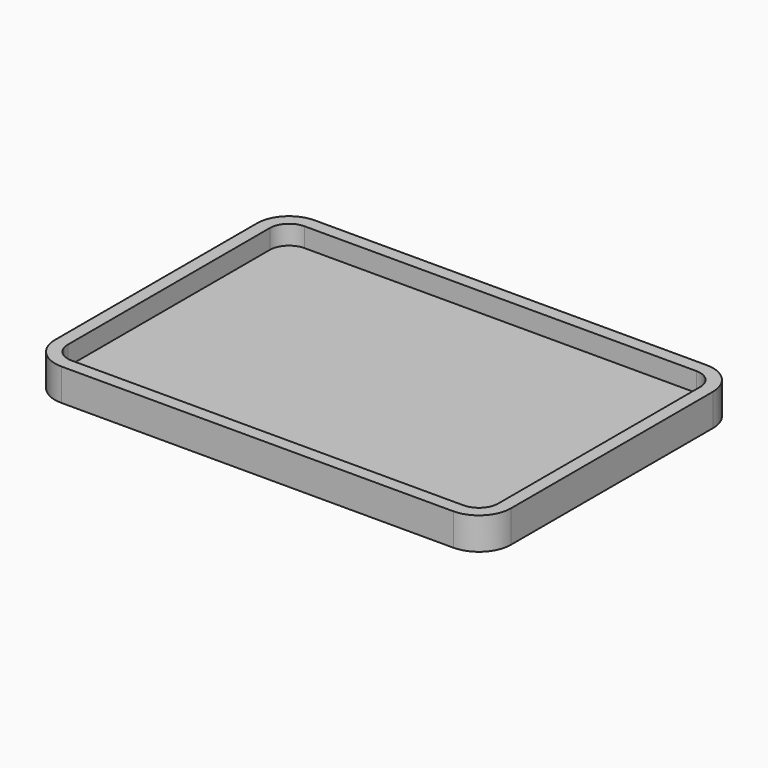
from build123d import *

# Parameters (mm, degrees)
F3_DEPTH = 6.35
F1_DEPTH = 2.54


with BuildPart() as f3:
    # F2 (on face) → F3 (new body)
    with BuildSketch(Plane.XY):
        with BuildLine():
            ThreePointArc((44.544026, 36.572959), (42.684154, 41.063087), (38.194026, 42.922959))
            Line((38.194026, 42.922959), (-39.380025, 42.922959))
            ThreePointArc((-39.380025, 42.922959), (-43.870153, 41.063087), (-45.730025, 36.572959))
            Line((-45.730025, 36.572959), (-45.730025, -13.405945))
            ThreePointArc((-45.730025, -13.405945), (-43.870153, -17.896073), (-39.380025, -19.755945))
            Line((-39.380025, -19.755945), (38.194026, -19.755945))
            ThreePointArc((38.194026, -19.755945), (42.684154, -17.896073), (44.544026, -13.405945))
            Line((44.544026, -13.405945), (44.544026, 36.572959))
        make_face()
        with BuildLine():
            ThreePointArc((-43.190025, 36.572959), (-42.074101, 39.267036), (-39.380025, 40.382959))
            Line((-39.380025, 40.382959), (38.194026, 40.382959))
            ThreePointArc((38.194026, 40.382959), (40.888103, 39.267036), (42.004026, 36.572959))
            Line((42.004026, 36.572959), (42.004026, -13.405945))
            ThreePointArc((42.004026, -13.405945), (40.888103, -16.100021), (38.194026, -17.215945))
            Line((38.194026, -17.215945), (-39.380025, -17.215945))
            ThreePointArc((-39.380025, -17.215945), (-42.074101, -16.100021), (-43.190025, -13.405945))
            Line((-43.190025, -13.405945), (-43.190025, 36.572959))
        make_face(mode=Mode.SUBTRACT)
    extrude(amount=F3_DEPTH)

    # F0 (on Top) → F1 (join)
    with BuildSketch(Plane.XY):
        with BuildLine():
            Line((38.194026, 42.922959), (-39.380025, 42.922959))
            ThreePointArc((-39.380025, 42.922959), (-43.870153, 41.063087), (-45.730025, 36.572959))
            Line((-45.730025, 36.572959), (-45.730025, -13.405945))
            ThreePointArc((-45.730025, -13.405945), (-43.870153, -17.896073), (-39.380025, -19.755945))
            Line((-39.380025, -19.755945), (38.194026, -19.755945))
            ThreePointArc((38.194026, -19.755945), (42.684154, -17.896073), (44.544026, -13.405945))
            Line((44.544026, -13.405945), (44.544026, 36.572959))
            ThreePointArc((44.544026, 36.572959), (42.684154, 41.063087), (38.194026, 42.922959))
        make_face()
    extrude(amount=F1_DEPTH)


solid = f3.part
